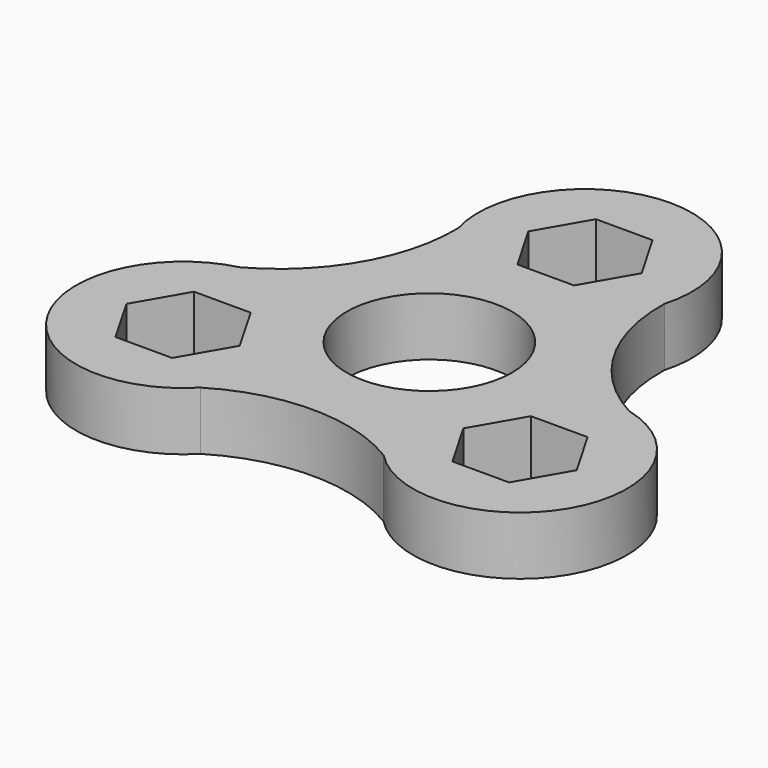
from build123d import *

# Parameters (mm, degrees)
F0_R     = 8.5
F1_DEPTH = 6


with BuildPart() as f1:
    # F0 (on Top) → F1 (new body)
    with BuildSketch(Plane.XY):
        with BuildLine():
            ThreePointArc((10.575886, 16.975), (0, 31), (-10.575886, 16.975))
            ThreePointArc((-10.575886, 16.975), (-12.990381, 7.5), (-19.988724, 0.671486))
            ThreePointArc((-19.988724, 0.671486), (-26.846788, -15.5), (-9.412838, -17.646486))
            ThreePointArc((-9.412838, -17.646486), (0, -15), (9.412838, -17.646486))
            ThreePointArc((9.412838, -17.646486), (26.846788, -15.5), (19.988724, 0.671486))
            ThreePointArc((19.988724, 0.671486), (12.990381, 7.5), (10.575886, 16.975))
        make_face()
        Polygon((-11.495044, -10), (-14.407776, -15.045), (-20.23324, -15.045), (-23.145972, -10), (-20.23324, -4.955), (-14.407776, -4.955), align=None, mode=Mode.SUBTRACT)
        Polygon((14.407776, -4.955), (20.23324, -4.955), (23.145972, -10), (20.23324, -15.045), (14.407776, -15.045), (11.495044, -10), align=None, mode=Mode.SUBTRACT)
        Circle(F0_R, mode=Mode.SUBTRACT)
        Polygon((-5.825464, 20), (-2.912732, 25.045), (2.912732, 25.045), (5.825464, 20), (2.912732, 14.955), (-2.912732, 14.955), align=None, mode=Mode.SUBTRACT)
    extrude(amount=F1_DEPTH)


solid = f1.part
